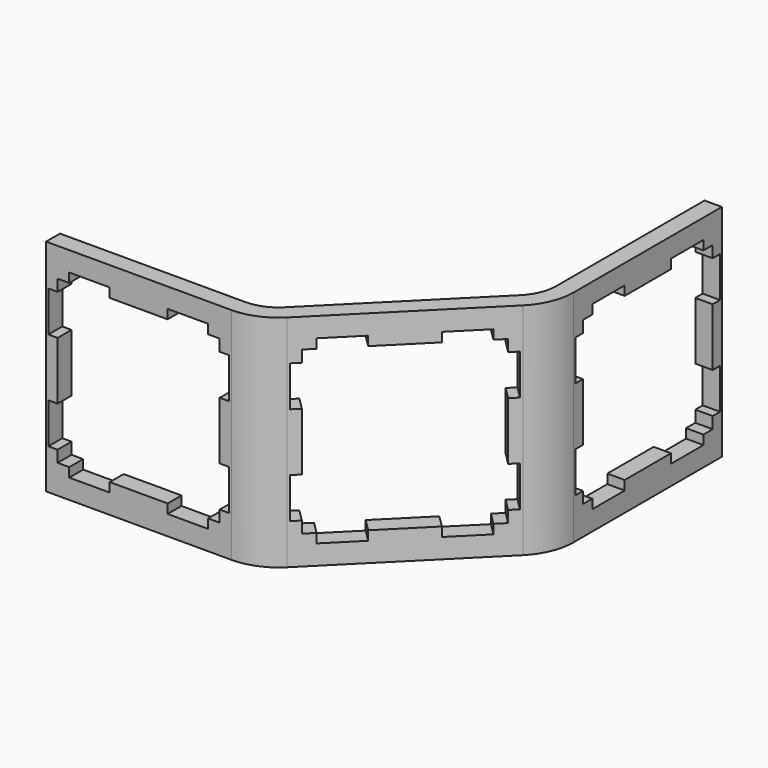
from build123d import *

# Parameters (mm, degrees)
PAD_DEPTH       = 19
POCKET_DEPTH    = 11.62232
POCKET002_DEPTH = 1.501
POCKET003_DEPTH = 1.501


with BuildPart() as part:
    # Sketch → Pad (new body)
    with BuildSketch(Plane.XY):
        with BuildLine():
            Line((0, 0), (16, 0))
            ThreePointArc((16, 0), (17.959845, 0.389838), (19.62132, 1.500001))
            Line((19.62132, 1.500001), (30.935023, 12.813715))
            ThreePointArc((30.935023, 12.813715), (32.045185, 14.475191), (32.435022, 16.435035))
            Line((32.435022, 32.435035), (32.435022, 16.435035))
            Line((30.935022, 32.435035), (32.435022, 32.435035))
            Line((30.935022, 16.435035), (30.935022, 32.435035))
            ThreePointArc((29.874363, 13.874375), (30.659366, 15.049216), (30.935022, 16.435035))
            Line((29.874363, 13.874375), (18.56066, 2.560661))
            ThreePointArc((16, 1.5), (17.385819, 1.775657), (18.56066, 2.560661))
            Line((16, 1.5), (0, 1.5))
            Line((0, 1.5), (0, 0))
        make_face()
    extrude(amount=PAD_DEPTH)

    # Sketch004 → Pocket (cut, through all)
    with BuildSketch(Plane(origin=(8.000009, -8.000001, 0), x_dir=(-0.707106, -0.707107, 0), z_dir=(-0.707107, 0.707106, 0))):
        Polygon((-28.935023, 17.3), (-25.435023, 17.3), (-25.435023, 16.5), (-20.435023, 16.5), (-20.435023, 17.3), (-16.935023, 17.3), (-16.935023, 16.5), (-15.935023, 16.5), (-15.935023, 15.5), (-15.135024, 15.5), (-15.135024, 12), (-15.935023, 12), (-15.935023, 7), (-15.135024, 7), (-15.135024, 3.5), (-15.935023, 3.5), (-15.935023, 2.5), (-16.935023, 2.5), (-16.935023, 1.7), (-20.435023, 1.7), (-20.435023, 2.5), (-25.435023, 2.5), (-25.435023, 1.7), (-28.935023, 1.7), (-28.935023, 2.5), (-29.935023, 2.5), (-29.935023, 3.5), (-30.735024, 3.5), (-30.735024, 7), (-29.935023, 7), (-29.935023, 12), (-30.735024, 12), (-30.735024, 15.5), (-29.935023, 15.5), (-29.935023, 16.5), (-28.935023, 16.5), align=None)
    extrude(amount=-POCKET_DEPTH, mode=Mode.SUBTRACT)

    # Sketch004001 → Pocket002 (cut, through all)
    with BuildSketch(Plane(origin=(30.935022, 0, 0), x_dir=(0, -1, 0), z_dir=(-1, 0, 0))):
        Polygon((-30.435035, 17.3), (-26.935035, 17.3), (-26.935035, 16.5), (-21.935035, 16.5), (-21.935035, 17.3), (-18.435035, 17.3), (-18.435035, 16.5), (-17.435035, 16.5), (-17.435035, 15.5), (-16.635036, 15.5), (-16.635036, 12), (-17.435035, 12), (-17.435035, 7), (-16.635036, 7), (-16.635036, 3.5), (-17.435035, 3.5), (-17.435035, 2.5), (-18.435035, 2.5), (-18.435035, 1.7), (-21.935035, 1.7), (-21.935035, 2.5), (-26.935035, 2.5), (-26.935035, 1.7), (-30.435035, 1.7), (-30.435035, 2.5), (-31.435035, 2.5), (-31.435035, 3.5), (-32.235036, 3.5), (-32.235036, 7), (-31.435035, 7), (-31.435035, 12), (-32.235036, 12), (-32.235036, 15.5), (-31.435035, 15.5), (-31.435035, 16.5), (-30.435035, 16.5), align=None)
    extrude(amount=-POCKET002_DEPTH, mode=Mode.SUBTRACT)

    # Sketch004001001 → Pocket003 (cut, through all)
    with BuildSketch(Plane(origin=(0, 1.5, 0), x_dir=(-1, 0, 0), z_dir=(0, 1, 0))):
        Polygon((-14, 17.3), (-10.5, 17.3), (-10.5, 16.5), (-5.5, 16.5), (-5.5, 17.3), (-2, 17.3), (-2, 16.5), (-1, 16.5), (-1, 15.5), (-0.200001, 15.5), (-0.200001, 12), (-1, 12), (-1, 7), (-0.200001, 7), (-0.200001, 3.5), (-1, 3.5), (-1, 2.5), (-2, 2.5), (-2, 1.7), (-5.5, 1.7), (-5.5, 2.5), (-10.5, 2.5), (-10.5, 1.7), (-14, 1.7), (-14, 2.5), (-15, 2.5), (-15, 3.5), (-15.800001, 3.5), (-15.800001, 7), (-15, 7), (-15, 12), (-15.800001, 12), (-15.800001, 15.5), (-15, 15.5), (-15, 16.5), (-14, 16.5), align=None)
    extrude(amount=-POCKET003_DEPTH, mode=Mode.SUBTRACT)


with BuildPart() as part_1:
    # Clone placement: moved
    add(part.part.moved(Location((0, 2.38, 19))))


with BuildPart() as part_2:
    # Clone001 placement: moved
    add(part_1.part.moved(Location((0, 4.75, 19))))


solid = part_2.part
